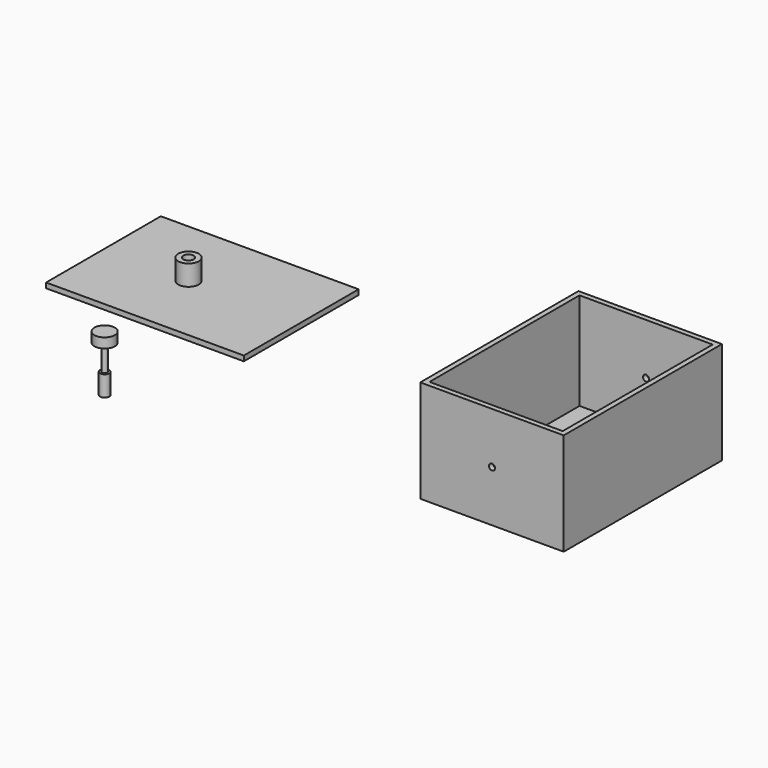
from build123d import *

# Parameters (mm, degrees)
F1_DEPTH  = 50
F2_T      = -2.5
F4_DEPTH  = 11.5
F5_R      = 5
F6_DEPTH  = 5
F7_W      = 65
F7_H      = 70
F8_DEPTH  = 2.5
F9_R      = 5
F10_DEPTH = 10
F11_R     = 2.5
F12_DEPTH = 5
F13_R     = 1.25
F14_DEPTH = 22.5
F15_R     = 5
F16_DEPTH = 4.8
F17_W     = 70
F17_H     = 2.5
F18_DEPTH = 31.5
F20_DEPTH = 125
F21_R     = 2.25
F21_R_2   = 1.25
F22_DEPTH = 10


with BuildPart() as f1:
    # F0 (on Top) → F1 (new body)
    with BuildSketch(Plane.XY):
        Polygon((-35, -32.5), (35, -32.5), (35, 32.5), (35, 64), (-35, 64), (-35, 32.5), align=None)
    extrude(amount=F1_DEPTH)

    # F2
    f2_openings = [f1.faces().sort_by_distance(p)[0] for p in [
        (0, 15.75, 50),
    ]]
    offset(amount=F2_T, openings=f2_openings)

    # F3 (on face) → F4 (join)
    with BuildSketch(Plane(origin=(0, 0, 0), x_dir=(1, 0, 0), z_dir=(0, 0, -1))):
        with BuildLine():
            ThreePointArc((0, 3.5), (0.8838834765, 3.8661165235), (1.25, 4.75))
            ThreePointArc((1.25, 4.75), (-0.8838834765, 5.6338834765), (0, 3.5))
        make_face()
    extrude(amount=-F4_DEPTH)

    # F5 (on Top) → F6 (join)
    with BuildSketch(Plane.XY):
        with Locations((0, -4.75)):
            Circle(F5_R)
    extrude(amount=F6_DEPTH)

    # F19 (on face) → F20 (cut)
    with BuildSketch(Plane.XZ.offset(32.5)):
        with BuildLine():
            ThreePointArc((1.5, 25), (1.0606601718, 26.0606601718), (0, 26.5))
            Line((0, 26.5), (0, 23.5))
            ThreePointArc((0, 23.5), (1.0606601718, 23.9393398282), (1.5, 25))
        make_face()
        with BuildLine():
            Line((0, 23.5), (0, 26.5))
            ThreePointArc((0, 26.5), (-1.5, 25), (0, 23.5))
        make_face()
    extrude(amount=-F20_DEPTH, mode=Mode.SUBTRACT)


with BuildPart() as f8:
    # F7 (on Top) → F8 (new body)
    with BuildSketch(Plane.XY):
        with Locations((-190.8392894268, 49.0591003001)):
            Rectangle(F7_W, F7_H)
    extrude(amount=F8_DEPTH)

    # F9 (on face) → F10 (join)
    with BuildSketch(Plane.XY.offset(2.5)):
        with Locations((-213.3392894268, 49.0591003001)):
            Circle(F9_R)
    extrude(amount=F10_DEPTH)

    # F11 (on face) → F12 (cut)
    with BuildSketch(Plane.XY.offset(12.5)):
        with Locations((-213.3392894268, 49.0591003001)):
            Circle(F11_R)
    extrude(amount=-F12_DEPTH, mode=Mode.SUBTRACT)

    # F17 (on face) → F18 (join)
    with BuildSketch(Plane(origin=(-223.3392894268, 0, 0), x_dir=(0, -1, 0), z_dir=(-1, 0, 0))):
        with Locations((-49.0591003001, 1.25)):
            Rectangle(F17_W, F17_H)
    extrude(amount=F18_DEPTH)


with BuildPart() as f14:
    # F13 (on Top) → F14 (new body)
    with BuildSketch(Plane.XY):
        with Locations((-182.449400425, -40.7071635127)):
            Circle(F13_R)
    extrude(amount=F14_DEPTH)

    # F15 (on face) → F16 (join)
    with BuildSketch(Plane.XY.offset(22.5)):
        with Locations((-182.449400425, -40.7071635127)):
            Circle(F15_R)
    extrude(amount=F16_DEPTH)

    # F21 (on face) → F22 (join)
    with BuildSketch(Plane(origin=(0, 0, 0), x_dir=(1, 0, 0), z_dir=(0, 0, -1))):
        with Locations((-182.449400425, 40.7071635127)):
            Circle(F21_R)
        with Locations((-182.449400425, 40.7071635127)):
            Circle(F21_R_2, mode=Mode.SUBTRACT)
    extrude(amount=-F22_DEPTH)


solid = Compound([f1.part, f8.part, f14.part])
